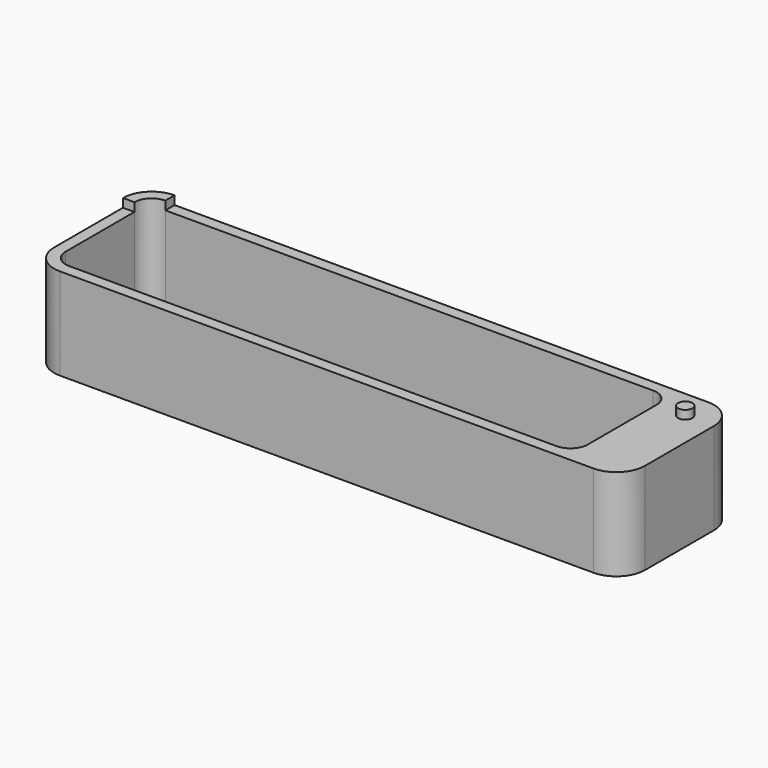
from build123d import *

# Parameters (mm, degrees)
F0_R     = 2.5
F1_DEPTH = 32
F2_DEPTH = 35
F3_DEPTH = 4


with BuildPart() as f1:
    # F0 (on Top) → F1 (new body)
    with BuildSketch(Plane.XY):
        with BuildLine():
            Line((-95, 15), (-91, 15))
            ThreePointArc((-91, 15), (-89.242641, 19.242641), (-85, 21))
            Line((-85, 21), (-85, 25))
            ThreePointArc((-85, 25), (-92.071068, 22.071068), (-95, 15))
        make_face()
        with BuildLine():
            ThreePointArc((91, -15), (89.242641, -19.242641), (85, -21))
            Line((85, -21), (-85, -21))
            ThreePointArc((-85, -21), (-89.242641, -19.242641), (-91, -15))
            Line((-91, -15), (-91, 15))
            Line((-91, 15), (-95, 15))
            Line((-95, 15), (-95, -15))
            ThreePointArc((-95, -15), (-92.071068, -22.071068), (-85, -25))
            Line((-85, -25), (101, -25))
            ThreePointArc((101, -25), (108.071068, -22.071068), (111, -15))
            Line((111, -15), (111, 15))
            ThreePointArc((111, 15), (108.071068, 22.071068), (101, 25))
            Line((101, 25), (-85, 25))
            Line((-85, 25), (-85, 21))
            Line((-85, 21), (85, 21))
            ThreePointArc((85, 21), (89.242641, 19.242641), (91, 15))
            Line((91, 15), (91, -15))
        make_face()
        with Locations((101, 15)):
            Circle(F0_R, mode=Mode.SUBTRACT)
        with Locations((101, 15)):
            Circle(F0_R)
    extrude(amount=F1_DEPTH)

    # F0 (on Top) → F2 (join)
    with BuildSketch(Plane.XY):
        with BuildLine():
            Line((-95, 15), (-91, 15))
            ThreePointArc((-91, 15), (-89.242641, 19.242641), (-85, 21))
            Line((-85, 21), (-85, 25))
            ThreePointArc((-85, 25), (-92.071068, 22.071068), (-95, 15))
        make_face()
        with Locations((101, 15)):
            Circle(F0_R)
    extrude(amount=F2_DEPTH)

    # F0 (on Top) → F3 (join)
    with BuildSketch(Plane.XY):
        with BuildLine():
            Line((-85, -21), (85, -21))
            ThreePointArc((85, -21), (89.242641, -19.242641), (91, -15))
            Line((91, -15), (91, 15))
            ThreePointArc((91, 15), (89.242641, 19.242641), (85, 21))
            Line((85, 21), (-85, 21))
            ThreePointArc((-85, 21), (-89.242641, 19.242641), (-91, 15))
            Line((-91, 15), (-91, -15))
            ThreePointArc((-91, -15), (-89.242641, -19.242641), (-85, -21))
        make_face()
    extrude(amount=F3_DEPTH)


solid = f1.part
